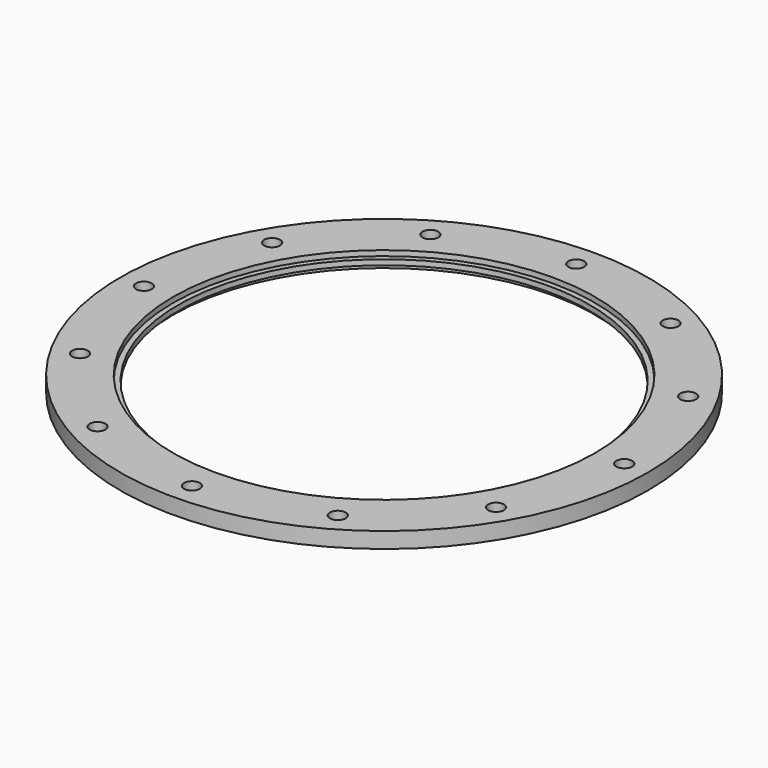
from build123d import *

# Parameters (mm, degrees)
F0_R     = 250
F0_R_2   = 200
F1_DEPTH = 15
F2_R     = 7.5
F3_DEPTH = 15
F5_R     = 200
F5_R_2   = 195
F6_DEPTH = 5


with BuildPart() as f1:
    # F0 (on Top) → F1 (new body)
    with BuildSketch(Plane.XY):
        Circle(F0_R)
        Circle(F0_R_2, mode=Mode.SUBTRACT)
    extrude(amount=F1_DEPTH)

    # F2 (on face) → F3 (cut, through all)
    with BuildSketch(Plane.XY.offset(15)):
        with Locations((227.5, 0)):
            Circle(F2_R)
        with Locations((197.020779, 113.75)):
            Circle(F2_R)
        with Locations((113.75, 197.020779)):
            Circle(F2_R)
        with Locations((0, 227.5)):
            Circle(F2_R)
        with Locations((-113.75, 197.020779)):
            Circle(F2_R)
        with Locations((-197.020779, 113.75)):
            Circle(F2_R)
        with Locations((-227.5, 0)):
            Circle(F2_R)
        with Locations((-197.020779, -113.75)):
            Circle(F2_R)
        with Locations((-113.75, -197.020779)):
            Circle(F2_R)
        with Locations((0, -227.5)):
            Circle(F2_R)
        with Locations((113.75, -197.020779)):
            Circle(F2_R)
        with Locations((197.020779, -113.75)):
            Circle(F2_R)
    extrude(amount=-F3_DEPTH, mode=Mode.SUBTRACT)

    # F5 (on offset) → F6 (join)
    with BuildSketch(Plane.XY.offset(5)):
        Circle(F5_R)
        Circle(F5_R_2, mode=Mode.SUBTRACT)
    extrude(amount=F6_DEPTH)


solid = f1.part
